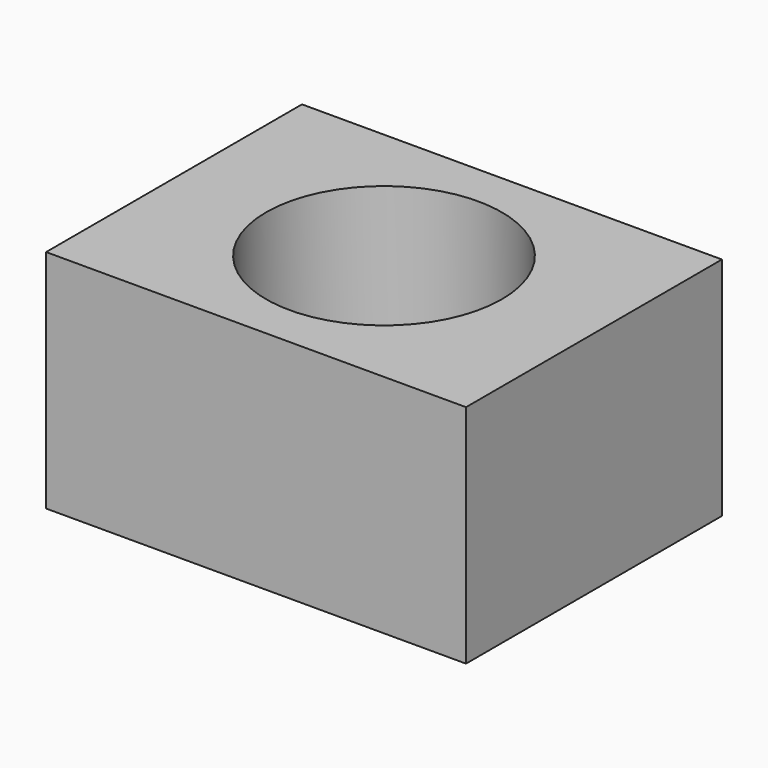
from build123d import *

# Parameters (mm, degrees)
F0_W     = 50.547
F0_H     = 38.502242
F1_DEPTH = 27.178
F2_R     = 14.186168
F3_DEPTH = 27.179


with BuildPart() as f1:
    # F0 (on Top) → F1 (new body)
    with BuildSketch(Plane.XY):
        with Locations((25.2735, 19.251121)):
            Rectangle(F0_W, F0_H)
    extrude(amount=F1_DEPTH)

    # F2 (on face) → F3 (cut, through all)
    with BuildSketch(Plane(origin=(0, 0, 0), x_dir=(1, 0, 0), z_dir=(0, 0, -1))):
        with Locations((25.2735, -19.251121)):
            Circle(F2_R)
    extrude(amount=-F3_DEPTH, mode=Mode.SUBTRACT)


solid = f1.part
